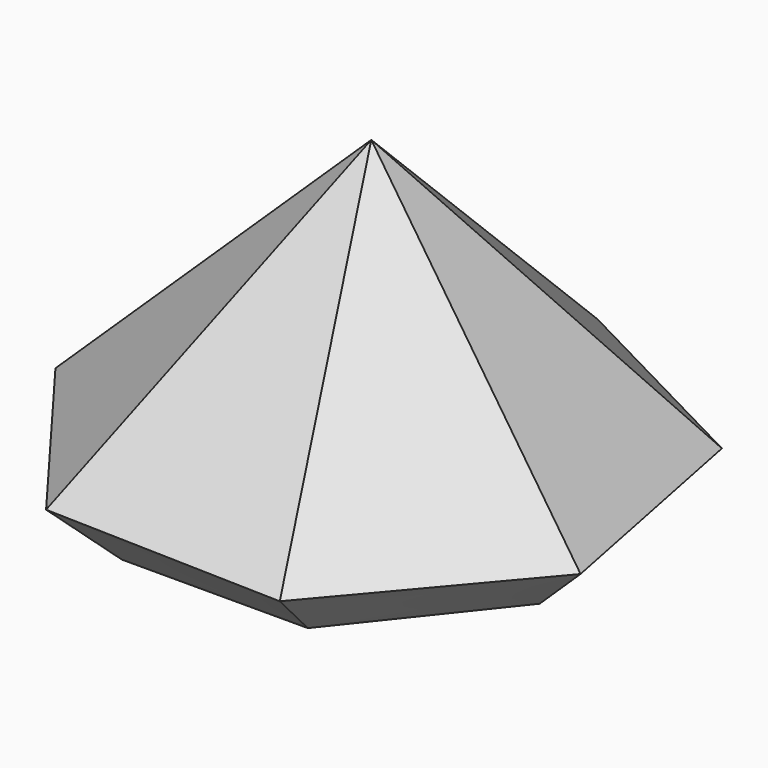
from build123d import *


with BuildPart() as f5:
    # F2 (on offset) → F5 section 0
    with BuildSketch(Plane.XY.offset(2), mode=Mode.PRIVATE) as f5_s0:
        Polygon((9.893138, -2.562072), (8.171379, 6.137341), (0.296405, 10.215211), (-7.801768, 6.600819), (-10.025051, -1.984125), (-4.699266, -9.074982), (4.165162, -9.332193), align=None)
    loft([Vertex(0.172753, -0.103171, 12), f5_s0.sketch])

    # F0 (on Top) → F6 section 0
    with BuildSketch(Plane.XY):
        Polygon((7.732626, -1.753436), (6.192105, 4.952361), (-0.011197, 7.928929), (-6.206068, 4.934852), (-7.727643, -1.775269), (-3.430145, -7.148577), (3.450322, -7.13886), align=None)
    # F5_face (on face) → F6 section 1
    with BuildSketch(Plane(origin=(0, 0, 2), x_dir=(1, 0, 0), z_dir=(0, 0, -1))):
        Polygon((9.893138, 2.562072), (4.165162, 9.332193), (-4.699266, 9.074982), (-10.025051, 1.984125), (-7.801768, -6.600819), (0.296405, -10.215211), (8.171379, -6.137341), align=None)
    loft()


solid = f5.part
